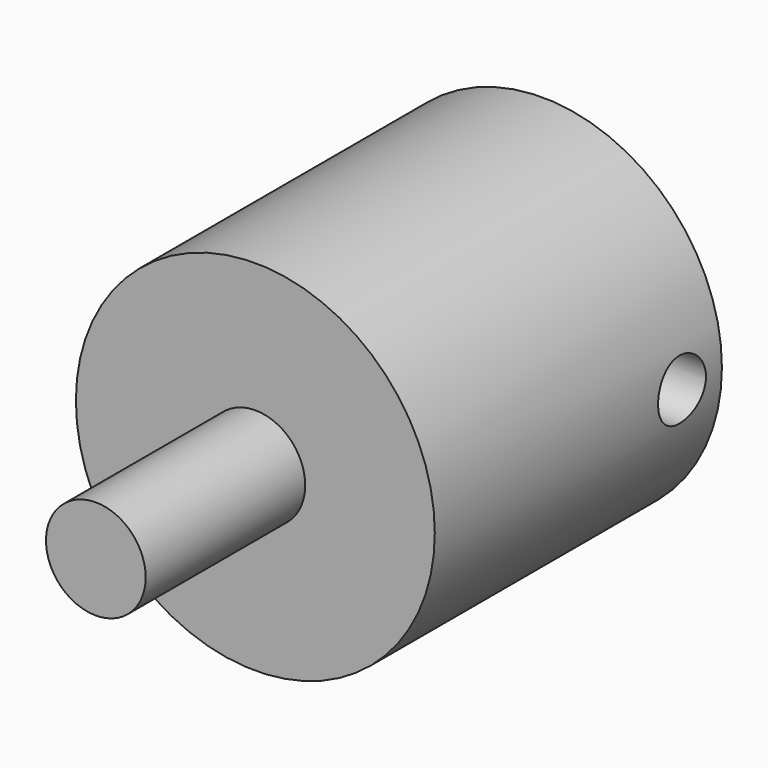
from build123d import *

# Parameters (mm, degrees)
F0_R          = 2.5
F1_DEPTH      = 10
F2_R          = 9
F3_DEPTH      = 18
F5_START      = -4
F4_R          = 4
F5_DEPTH      = 21.4
F6_R          = 1.5
F7_DEPTH      = 25.4
F7_DEPTH_BACK = 32.004


with BuildPart() as f1:
    # F0 (on Front) → F1 (new body)
    with BuildSketch(Plane.XZ):
        Circle(F0_R)
    extrude(amount=F1_DEPTH)

    # F2 (on Front) → F3 (join)
    with BuildSketch(Plane.XZ):
        Circle(F2_R)
    extrude(amount=-F3_DEPTH)

    # F4 (on Front) → F5 (cut)
    with BuildSketch(Plane.XZ.offset(F5_START)):
        Circle(F4_R)
    extrude(amount=-F5_DEPTH, mode=Mode.SUBTRACT)

    # F6 (on Right) → F7 (cut, two sides)
    with BuildSketch(Plane.YZ) as f7_sk:
        with Locations((15.5, 0)):
            Circle(F6_R)
    extrude(amount=-F7_DEPTH, mode=Mode.SUBTRACT)
    extrude(f7_sk.sketch, amount=F7_DEPTH_BACK, mode=Mode.SUBTRACT)


solid = f1.part
